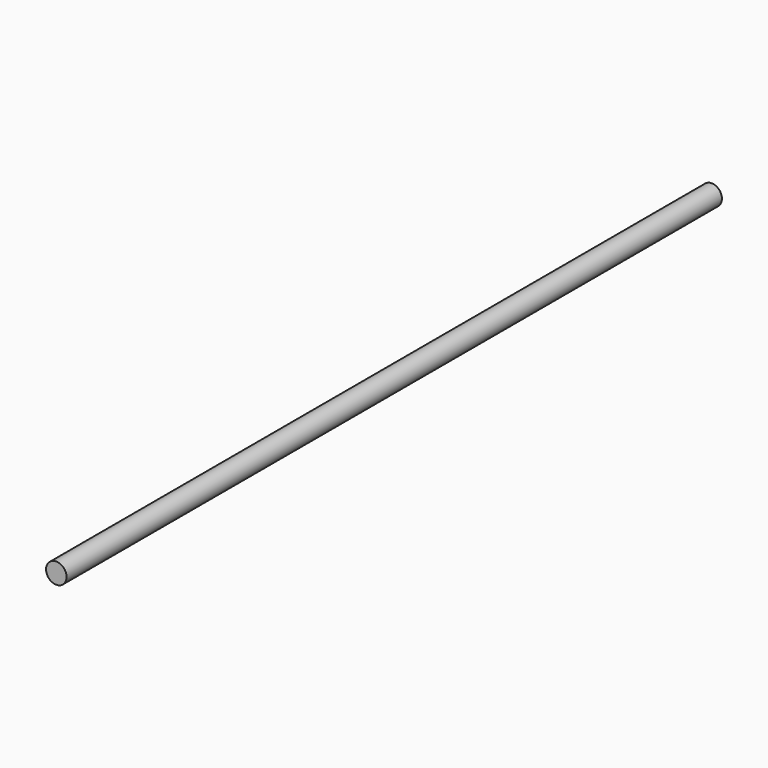
from build123d import *

# Parameters (mm, degrees)
F1_R     = 6
F2_DEPTH = 240


with BuildPart() as f2:
    # F1 (on Front) → F2 (new body, symmetric)
    with BuildSketch(Plane.XZ):
        Circle(F1_R)
    extrude(amount=F2_DEPTH, both=True)


with BuildPart() as f3_1:
    # F3: copy of F2
    add(f2.part)


solid = f2.part
